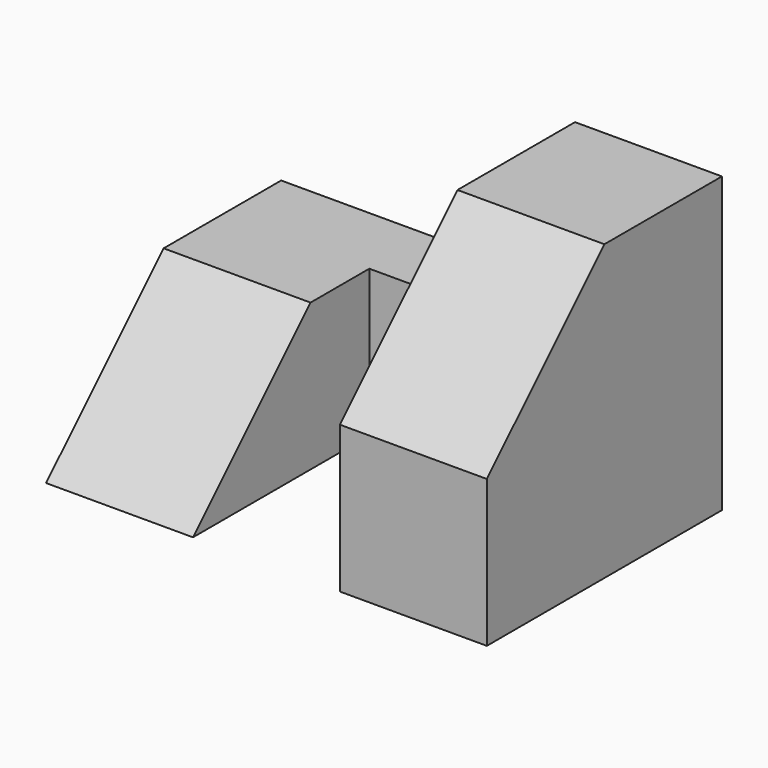
from build123d import *

# Parameters (mm, degrees)
F1_DEPTH = 12.7
F3_DEPTH = 25.4
F4_W     = 12.7
F4_H     = 19.05
F5_DEPTH = 25.401


with BuildPart() as f1:
    # F0 (on Right) → F1 (new body)
    with BuildSketch(Plane.YZ):
        Polygon((0, 12.7), (0, 0), (25.4, 0), (25.4, 25.4), (12.7, 25.4), align=None)
    extrude(amount=F1_DEPTH)

    # F2 (on face) → F3 (join)
    with BuildSketch(Plane(origin=(0, 0, 0), x_dir=(0, -1, 0), z_dir=(-1, 0, 0))):
        Polygon((-12.7, 12.7), (-25.4, 12.7), (-25.4, 0), (0, 0), align=None)
    extrude(amount=F3_DEPTH)

    # F4 (on face) → F5 (cut, through all)
    with BuildSketch(Plane(origin=(0, 0, 0), x_dir=(1, 0, 0), z_dir=(0, 0, -1))):
        with Locations((-6.35, -9.525)):
            Rectangle(F4_W, F4_H)
    extrude(amount=-F5_DEPTH, mode=Mode.SUBTRACT)


solid = f1.part
